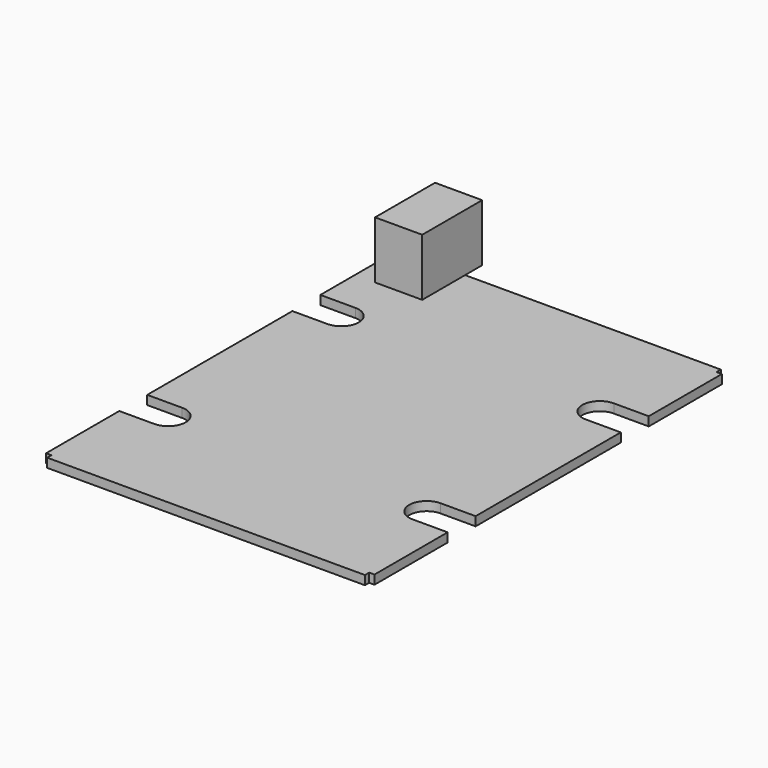
from build123d import *

# Parameters (mm, degrees)
PAD_DEPTH       = 1.7
SKETCH001_W     = 8.9
SKETCH001_H     = 14.15
PAD010_DEPTH    = 10.82
SKETCH021_R     = 3.185
SKETCH021_R_2   = 1
POCKET010_DEPTH = 10
FILLET014_R     = 1


with BuildPart() as part:
    # Sketch → Pad (new body)
    with BuildSketch(Plane.XY):
        with BuildLine():
            Line((0, 0), (30, 0))
            Line((30, 0), (30, 1))
            Line((30, 1), (31, 1))
            Line((31, 1), (31, 18.27))
            Line((31, 18.27), (24.4, 18.27))
            ThreePointArc((24.4, 24.87), (21.1, 21.57), (24.4, 18.27))
            Line((24.4, 24.87), (31, 24.87))
            Line((31, 24.87), (31, 59.13))
            Line((31, 59.13), (24.4, 59.13))
            ThreePointArc((24.4, 65.73), (21.1, 62.43), (24.4, 59.13))
            Line((24.4, 65.73), (31, 65.73))
            Line((31, 65.73), (31, 83))
            Line((30, 83), (31, 83))
            Line((30, 84), (30, 83))
            Line((30, 84), (0, 84))
            Line((0, 84), (-30, 84))
            Line((-30, 84), (-30, 83))
            Line((-30, 83), (-31, 83))
            Line((-31, 83), (-31, 65.73))
            Line((-31, 65.73), (-24.4, 65.73))
            ThreePointArc((-24.4, 59.13), (-21.1, 62.43), (-24.4, 65.73))
            Line((-24.4, 59.13), (-31, 59.13))
            Line((-31, 59.13), (-31, 24.87))
            Line((-31, 24.87), (-24.4, 24.87))
            ThreePointArc((-24.4, 18.27), (-21.1, 21.57), (-24.4, 24.87))
            Line((-24.4, 18.27), (-31, 18.27))
            Line((-31, 18.27), (-31, 1))
            Line((-31, 1), (-30, 1))
            Line((-30, 1), (-30, 0))
            Line((-30, 0), (0, 0))
        make_face()
    extrude(amount=PAD_DEPTH)

    # Sketch001 → Pad010 (new body)
    with BuildSketch(Plane.XY.offset(1.7)):
        with Locations((-22.74, 80.955)):
            Rectangle(SKETCH001_W, SKETCH001_H)
    extrude(amount=PAD010_DEPTH)

    # Sketch021 → Pocket010 (cut)
    with BuildSketch(Plane(origin=(0, 88.03, 0), x_dir=(-1, 0, 0), z_dir=(0, 1, 0))):
        with Locations((22.74, 8.02)):
            Circle(SKETCH021_R)
        with Locations((22.74, 8.02)):
            Circle(SKETCH021_R_2, mode=Mode.SUBTRACT)
    extrude(amount=-POCKET010_DEPTH, mode=Mode.SUBTRACT)

    # Fillet014
    fillet014_edges = [part.edges().sort_by_distance(p)[0] for p in [
        (-21.74, 88.03, 8.02),
    ]]
    fillet(fillet014_edges, radius=FILLET014_R)


solid = part.part
